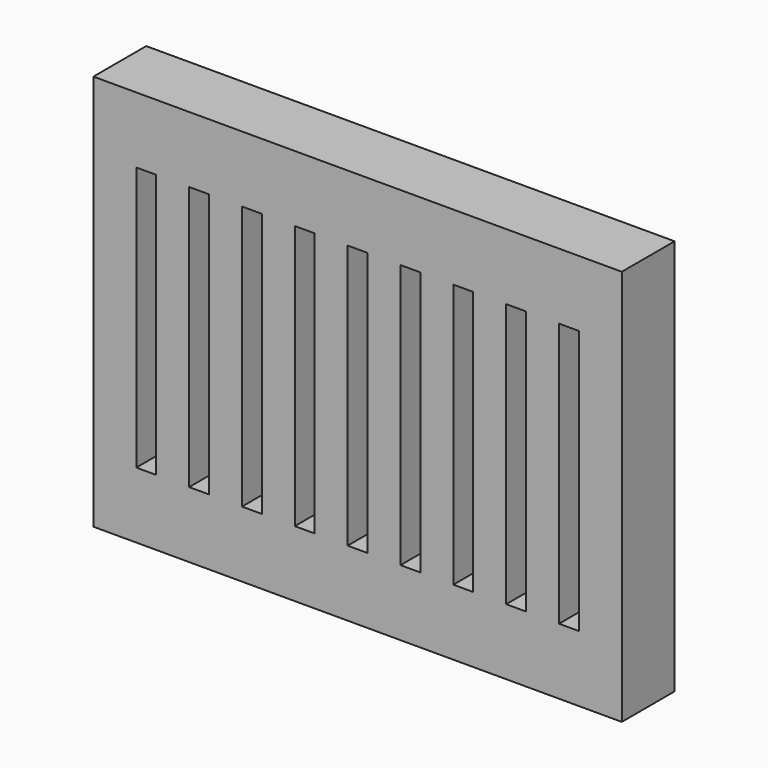
from build123d import *

# Parameters (mm, degrees)
F0_W     = 800
F0_H     = 600
F0_W_2   = 30
F0_H_2   = 400
F1_DEPTH = 50


with BuildPart() as f1:
    # F0 (on Front) → F1 (new body, symmetric)
    with BuildSketch(Plane.XZ):
        with Locations((400, 250)):
            Rectangle(F0_W, F0_H)
        with Locations((80, 250)):
            Rectangle(F0_W_2, F0_H_2, mode=Mode.SUBTRACT)
        with Locations((160, 250)):
            Rectangle(F0_W_2, F0_H_2, mode=Mode.SUBTRACT)
        with Locations((240, 250)):
            Rectangle(F0_W_2, F0_H_2, mode=Mode.SUBTRACT)
        with Locations((320, 250)):
            Rectangle(F0_W_2, F0_H_2, mode=Mode.SUBTRACT)
        with Locations((400, 250)):
            Rectangle(F0_W_2, F0_H_2, mode=Mode.SUBTRACT)
        with Locations((480, 250)):
            Rectangle(F0_W_2, F0_H_2, mode=Mode.SUBTRACT)
        with Locations((560, 250)):
            Rectangle(F0_W_2, F0_H_2, mode=Mode.SUBTRACT)
        with Locations((640, 250)):
            Rectangle(F0_W_2, F0_H_2, mode=Mode.SUBTRACT)
        with Locations((720, 250)):
            Rectangle(F0_W_2, F0_H_2, mode=Mode.SUBTRACT)
    extrude(amount=F1_DEPTH, both=True)


solid = f1.part
